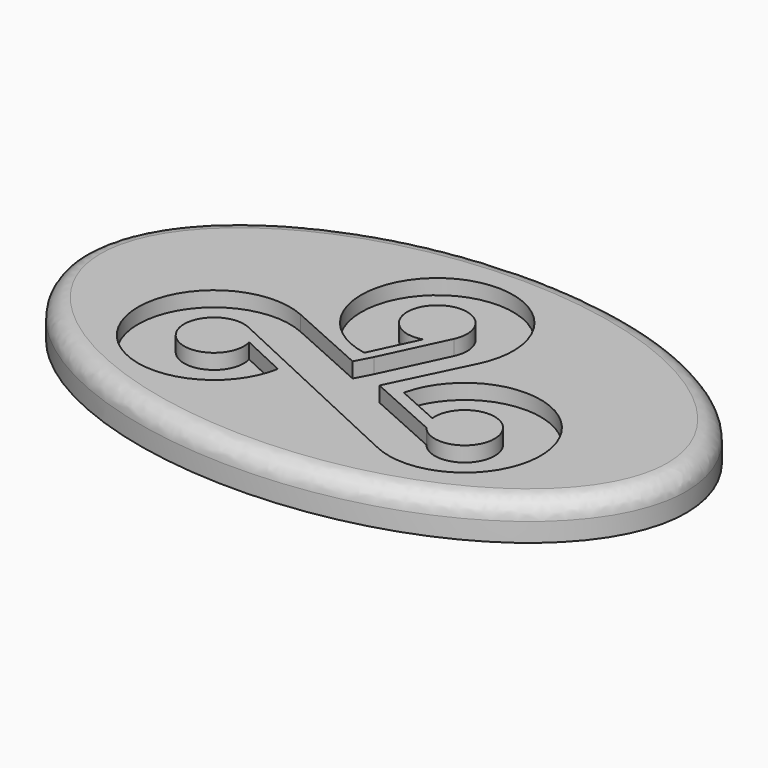
from build123d import *

# Parameters (mm, degrees)
F1_DEPTH = 6.35
F2_R     = 3.175
F4_DEPTH = 2.54


with BuildPart() as f1:
    # F0 (on Top) → F1 (new body)
    with BuildSketch(Plane.XY):
        with BuildLine():
            add(Edge.make_bspline(
                [(46.4667679362, 14.7020313889), (46.4667679362, 69.6946445292), (-29.7332320638, 42.198337959), (-105.9332320638, 14.7020313889), (-29.7332320638, -12.7942751813), (46.4667679362, -40.2905817514), (46.4667679362, 14.7020313889)],
                knots=[0, 0, 0, 2.0943951024, 2.0943951024, 4.1887902048, 4.1887902048, 6.2831853072, 6.2831853072, 6.2831853072], degree=2, weights=[1, 0.5, 1, 0.5, 1, 0.5, 1]))
        make_face()
    extrude(amount=F1_DEPTH)

    # F2
    f2_edges = [f1.edges().sort_by_distance(p)[0] for p in [
        (-55.133232, 14.702032, 6.35),
    ]]
    fillet(f2_edges, radius=F2_R)

    # F3 (on face) → F4 (cut)
    with BuildSketch(Plane.XY.offset(6.35)):
        with BuildLine():
            Line((-7.0111453533, 11.4558646455), (-20.6552552294, 17.5733874004))
            ThreePointArc((-20.6552552294, 17.5733874004), (-37.1761987235, -0.0246886569), (-13.3176603212, 3.6364587262))
            Line((-13.3176603212, 3.6364587262), (-21.018020945, 7.2233463086))
            ThreePointArc((-21.018020945, 7.2233463086), (-29.7332348601, 2.6890869675), (-23.7541803149, 10.4843014035))
            Line((-23.7541803149, 10.4843014035), (10.5452586516, -5.492642758))
            ThreePointArc((10.5452586516, -5.492642758), (27.7828952692, 11.4007532012), (3.7979978516, 8.7086092486))
            Line((3.7979978516, 8.7086092486), (11.2535546004, 5.3658086939))
            ThreePointArc((11.2535546004, 5.3658086939), (20.9047405218, 7.8439651836), (12.3175497403, 2.7895805763))
            Line((12.3175497403, 2.7895805763), (0.0068348978, 8.3092574817))
            Line((0.0068348978, 8.3092574817), (6.3240673878, 21.3539810768))
            ThreePointArc((6.3240673878, 21.3539810768), (-10.9966177854, 38.2777203705), (-7.3454385386, 14.338464395))
            Line((-7.3454385386, 14.338464395), (-3.6993528504, 22.1059842016))
            ThreePointArc((-3.6993528504, 22.1059842016), (-8.461757926, 30.7215662425), (-0.6121847146, 24.7807787185))
            Line((-0.6121847146, 24.7807787185), (-5.5982871229, 14.1585244636))
            Line((-5.5982871229, 14.1585244636), (-7.0111453533, 11.4558646455))
        make_face()
    extrude(amount=-F4_DEPTH, mode=Mode.SUBTRACT)


solid = f1.part
